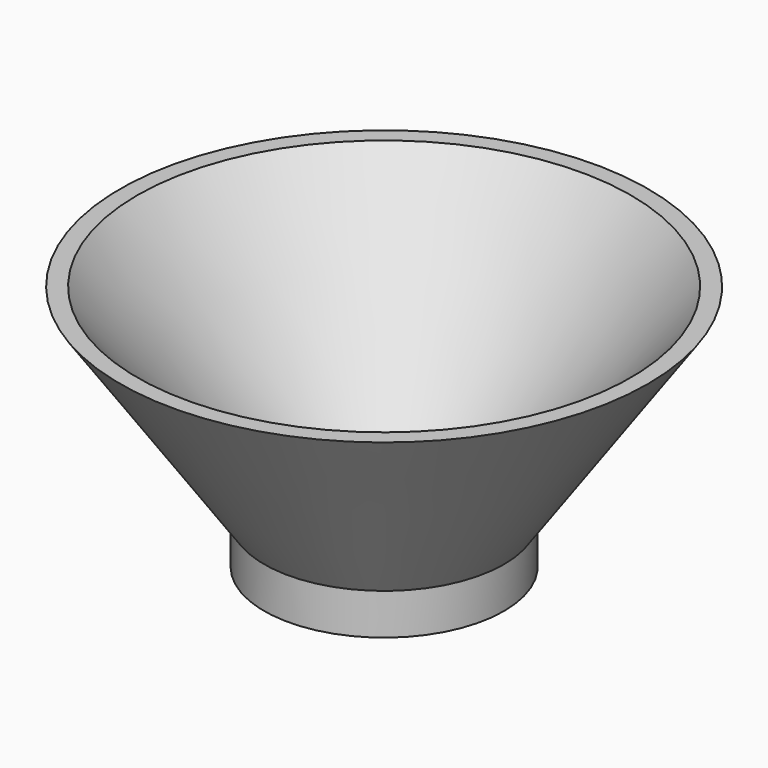
from build123d import *

# Parameters (mm, degrees)
F0_R           = 74.0554936968
F1_DEPTH       = 127.0000040531
F1_TAPER       = -35
F1_DEPTH_BACK  = 25.4
F5_D           = 63.5
F5_CSINK_D     = 304.8
F5_CSINK_ANGLE = 80


with BuildPart() as f1:
    # F0 (on Top) → F1 (new body, two sides)
    with BuildSketch(Plane.XY) as f1_sk:
        Circle(F0_R)
    extrude(amount=F1_DEPTH, taper=F1_TAPER)
    extrude(f1_sk.sketch, amount=-F1_DEPTH_BACK)

    # F5 (through all)
    with Locations(Plane.XY.offset(127.0000040531)):
        with Locations((0, 0)):
            CounterSinkHole(F5_D / 2, F5_CSINK_D / 2, counter_sink_angle=F5_CSINK_ANGLE)


solid = f1.part
